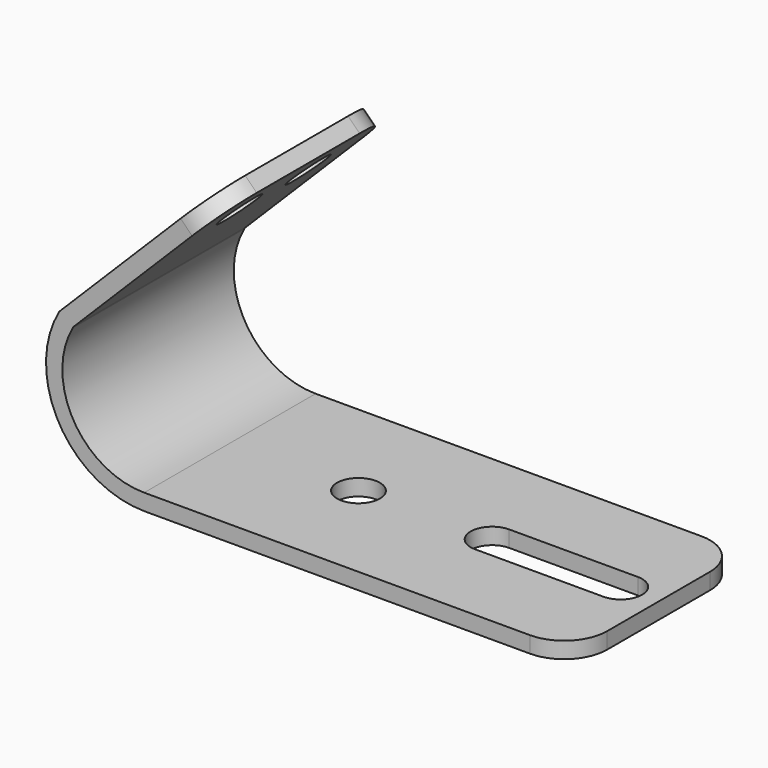
from build123d import *

# Parameters (mm, degrees)
F1_DEPTH       = 12.5
F2_R           = 2.5
F3_DEPTH       = 25
F5_D           = 5
F5_DEPTH       = 12
F5_CBORE_D     = 5
F5_CBORE_DEPTH = 5
F6_R           = 5
F7_R           = 5
F8_R           = 1.190337


with BuildPart() as f1:
    # F0 (on Front) → F1 (new body, symmetric)
    with BuildSketch(Plane.XZ):
        with BuildLine():
            Line((-10.22166, 0), (39.715874, 0))
            Line((39.715874, 0), (39.715874, 1.9))
            Line((39.715874, 1.9), (-10.284126, 1.9))
            ThreePointArc((-10.284126, 1.9), (-18.558483, 6.686742), (-18.533697, 16.245888))
            Line((-18.533697, 16.245888), (-1.153674, 33.625912))
            Line((-1.153674, 33.625912), (-2.497177, 34.969415))
            Line((-2.497177, 34.969415), (-20.174846, 17.291745))
            ThreePointArc((-20.174846, 17.291745), (-20.19751, 5.768283), (-10.22166, 0))
        make_face()
    extrude(amount=F1_DEPTH, both=True)

    # F2 (on face) → F3 (cut)
    with BuildSketch(Plane.XY.offset(1.9)):
        with Locations((4.715874, 0)):
            Circle(F2_R)
        with BuildLine():
            Line((35.217137, 2.606625), (20.217137, 2.606625))
            ThreePointArc((20.217137, 2.606625), (17.717137, 0.106625), (20.217137, -2.393375))
            Line((20.217137, -2.393375), (35.217137, -2.393375))
            ThreePointArc((35.217137, -2.393375), (37.717137, 0.106625), (35.217137, 2.606625))
        make_face()
    extrude(amount=-F3_DEPTH, mode=Mode.SUBTRACT)

    # F5
    with Locations(Plane(origin=(-18.733296, 0, 18.733296), x_dir=(0, -1, 0), z_dir=(-0.707107, 0, 0.707107))):
        with Locations((-5, 17.293558), (5, 17.293558)):
            CounterBoreHole(F5_D / 2, F5_CBORE_D / 2, F5_CBORE_DEPTH, depth=F5_DEPTH)

    # F6
    f6_edges = [f1.edges().sort_by_distance(p)[0] for p in [
        (39.715874, -12.5, 0.95),
        (39.715874, 12.5, 0.95),
    ]]
    fillet(f6_edges, radius=F6_R)

    # F7
    f7_edges = [f1.edges().sort_by_distance(p)[0] for p in [
        (-1.825425, -12.5, 34.297663),
        (-1.825425, 12.5, 34.297663),
    ]]
    fillet(f7_edges, radius=F7_R)

    # F8
    f8_edges = [f1.edges().sort_by_distance(p)[0] for p in [
        (-18.533697, 0, 16.245888),
        (-10.284126, 0, 1.9),
    ]]
    fillet(f8_edges, radius=F8_R)


solid = f1.part
